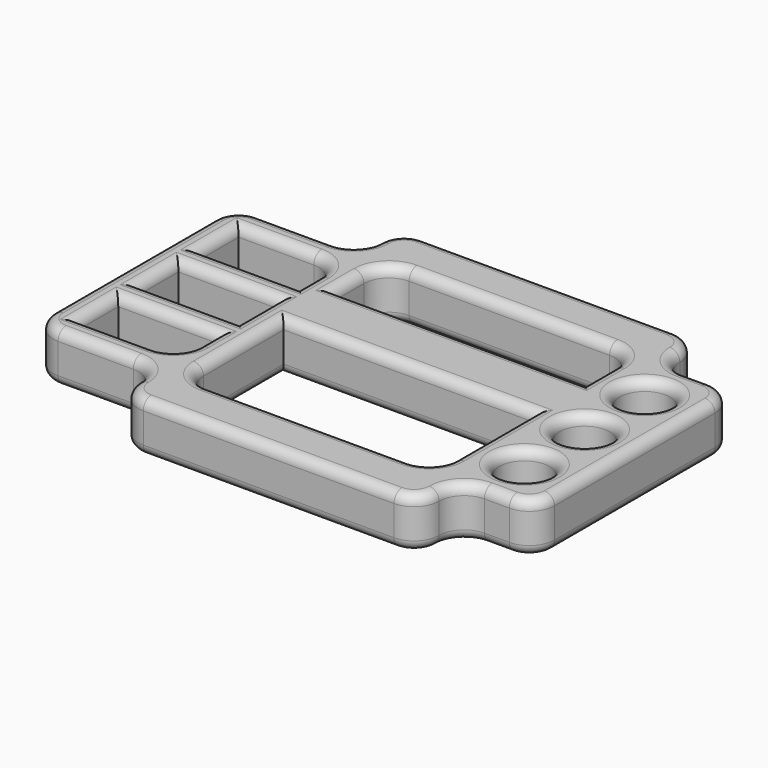
from build123d import *

# Parameters (mm, degrees)
F0_W     = 50.8
F0_H     = 25.4
F0_R     = 12.7
F1_DEPTH = 25.4
F2_R     = 5.08
F3_R     = 5.08


with BuildPart() as f1:
    # F0 (on Top) → F1 (new body)
    with BuildSketch(Plane.XY):
        with BuildLine():
            Line((-50.8, 25.4), (-12.7, 25.4))
            ThreePointArc((-12.7, 25.4), (-3.719744, 21.680256), (0, 12.7))
            ThreePointArc((0, 12.7), (3.719744, 3.719744), (12.7, 0))
            Line((12.7, 0), (139.7, 0))
            ThreePointArc((139.7, 0), (148.680256, 3.719744), (152.4, 12.7))
            ThreePointArc((152.4, 12.7), (156.119744, 21.680256), (165.1, 25.4))
            Line((165.1, 25.4), (177.8, 25.4))
            ThreePointArc((177.8, 25.4), (186.780256, 29.119744), (190.5, 38.1))
            Line((190.5, 38.1), (190.5, 139.7))
            ThreePointArc((190.5, 139.7), (186.780256, 148.680256), (177.8, 152.4))
            Line((177.8, 152.4), (165.1, 152.4))
            ThreePointArc((165.1, 152.4), (156.119744, 156.119744), (152.4, 165.1))
            ThreePointArc((152.4, 165.1), (148.680256, 174.080256), (139.7, 177.8))
            Line((139.7, 177.8), (12.7, 177.8))
            ThreePointArc((12.7, 177.8), (3.719744, 174.080256), (0, 165.1))
            ThreePointArc((0, 165.1), (-3.719744, 156.119744), (-12.7, 152.4))
            Line((-12.7, 152.4), (-50.8, 152.4))
            ThreePointArc((-50.8, 152.4), (-59.780256, 148.680256), (-63.5, 139.7))
            Line((-63.5, 139.7), (-63.5, 38.1))
            ThreePointArc((-63.5, 38.1), (-59.780256, 29.119744), (-50.8, 25.4))
        make_face()
        with BuildLine():
            Line((-12.7, 38.1), (-50.8, 38.1))
            Line((-50.8, 38.1), (-50.8, 63.5))
            Line((-50.8, 63.5), (0, 63.5))
            Line((0, 63.5), (0, 50.8))
            ThreePointArc((0, 50.8), (-3.719744, 41.819744), (-12.7, 38.1))
        make_face(mode=Mode.SUBTRACT)
        with Locations((-25.4, 88.9)):
            Rectangle(F0_W, F0_H, mode=Mode.SUBTRACT)
        with BuildLine():
            Line((12.7, 38.1), (12.7, 88.9))
            Line((12.7, 88.9), (139.7, 88.9))
            Line((139.7, 88.9), (139.7, 38.1))
            ThreePointArc((139.7, 38.1), (135.980256, 29.119744), (127, 25.4))
            Line((127, 25.4), (25.4, 25.4))
            ThreePointArc((25.4, 25.4), (16.419744, 29.119744), (12.7, 38.1))
        make_face(mode=Mode.SUBTRACT)
        with Locations((165.1, 50.8)):
            Circle(F0_R, mode=Mode.SUBTRACT)
        with Locations((165.1, 88.9)):
            Circle(F0_R, mode=Mode.SUBTRACT)
        with BuildLine():
            Line((-50.8, 114.3), (-50.8, 139.7))
            Line((-50.8, 139.7), (-12.7, 139.7))
            ThreePointArc((-12.7, 139.7), (-3.719744, 135.980256), (0, 127))
            Line((0, 127), (0, 114.3))
            Line((0, 114.3), (-50.8, 114.3))
        make_face(mode=Mode.SUBTRACT)
        with Locations((165.1, 127)):
            Circle(F0_R, mode=Mode.SUBTRACT)
        with BuildLine():
            Line((139.7, 120.65), (12.7, 120.65))
            Line((12.7, 120.65), (12.7, 139.7))
            ThreePointArc((12.7, 139.7), (16.419744, 148.680256), (25.4, 152.4))
            Line((25.4, 152.4), (127, 152.4))
            ThreePointArc((127, 152.4), (135.980256, 148.680256), (139.7, 139.7))
            Line((139.7, 139.7), (139.7, 120.65))
        make_face(mode=Mode.SUBTRACT)
    extrude(amount=F1_DEPTH)

    # F2
    f2_edges = [f1.edges().sort_by_distance(p)[0] for p in [
        (76.2, 177.8, 25.4),
        (3.719744, 174.080256, 25.4),
        (-3.719744, 156.119744, 25.4),
        (-31.75, 152.4, 25.4),
        (-59.780256, 148.680256, 25.4),
        (-63.5, 88.9, 25.4),
        (-59.780256, 29.119744, 25.4),
        (-31.75, 25.4, 25.4),
        (-3.719744, 21.680256, 25.4),
        (3.719744, 3.719744, 25.4),
        (76.2, 0, 25.4),
        (148.680256, 3.719744, 25.4),
        (156.119744, 21.680256, 25.4),
        (171.45, 25.4, 25.4),
        (186.780256, 29.119744, 25.4),
        (190.5, 88.9, 25.4),
        (186.780256, 148.680256, 25.4),
        (171.45, 152.4, 25.4),
        (156.119744, 156.119744, 25.4),
        (148.680256, 174.080256, 25.4),
        (-31.75, 38.1, 25.4),
        (-50.8, 50.8, 25.4),
        (-25.4, 63.5, 25.4),
        (0, 57.15, 25.4),
        (-3.719744, 41.819744, 25.4),
        (-50.8, 88.9, 25.4),
        (-25.4, 101.6, 25.4),
        (0, 88.9, 25.4),
        (-25.4, 76.2, 25.4),
        (12.7, 63.5, 25.4),
        (76.2, 88.9, 25.4),
        (139.7, 63.5, 25.4),
        (135.980256, 29.119744, 25.4),
        (76.2, 25.4, 25.4),
        (16.419744, 29.119744, 25.4),
        (152.4, 50.8, 25.4),
        (152.4, 88.9, 25.4),
        (0, 120.65, 25.4),
        (-25.4, 114.3, 25.4),
        (-50.8, 127, 25.4),
        (-31.75, 139.7, 25.4),
        (-3.719744, 135.980256, 25.4),
        (152.4, 127, 25.4),
        (139.7, 130.175, 25.4),
        (76.2, 120.65, 25.4),
        (12.7, 130.175, 25.4),
        (16.419744, 148.680256, 25.4),
        (76.2, 152.4, 25.4),
        (135.980256, 148.680256, 25.4),
    ]]
    fillet(f2_edges, radius=F2_R)

    # F3
    f3_edges = [f1.edges().sort_by_distance(p)[0] for p in [
        (76.2, 177.8, 0),
        (3.719744, 174.080256, 0),
        (-3.719744, 156.119744, 0),
        (-31.75, 152.4, 0),
        (-59.780256, 148.680256, 0),
        (-63.5, 88.9, 0),
        (-59.780256, 29.119744, 0),
        (-31.75, 25.4, 0),
        (-3.719744, 21.680256, 0),
        (3.719744, 3.719744, 0),
        (76.2, 0, 0),
        (148.680256, 3.719744, 0),
        (156.119744, 21.680256, 0),
        (171.45, 25.4, 0),
        (186.780256, 29.119744, 0),
        (190.5, 88.9, 0),
        (186.780256, 148.680256, 0),
        (171.45, 152.4, 0),
        (156.119744, 156.119744, 0),
        (148.680256, 174.080256, 0),
        (-31.75, 38.1, 0),
        (-50.8, 50.8, 0),
        (-25.4, 63.5, 0),
        (0, 57.15, 0),
        (-3.719744, 41.819744, 0),
        (-50.8, 88.9, 0),
        (-25.4, 101.6, 0),
        (0, 88.9, 0),
        (-25.4, 76.2, 0),
        (12.7, 63.5, 0),
        (76.2, 88.9, 0),
        (139.7, 63.5, 0),
        (135.980256, 29.119744, 0),
        (76.2, 25.4, 0),
        (16.419744, 29.119744, 0),
        (152.4, 50.8, 0),
        (152.4, 88.9, 0),
        (0, 120.65, 0),
        (-25.4, 114.3, 0),
        (-50.8, 127, 0),
        (-31.75, 139.7, 0),
        (-3.719744, 135.980256, 0),
        (152.4, 127, 0),
        (139.7, 130.175, 0),
        (76.2, 120.65, 0),
        (12.7, 130.175, 0),
        (16.419744, 148.680256, 0),
        (76.2, 152.4, 0),
        (135.980256, 148.680256, 0),
    ]]
    fillet(f3_edges, radius=F3_R)


solid = f1.part
